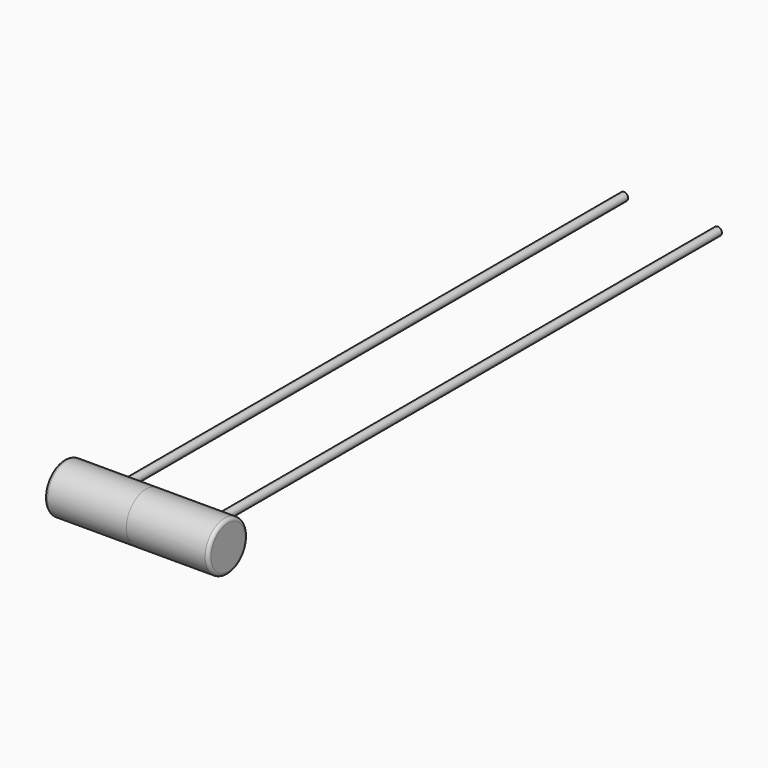
from build123d import *

# Parameters (mm, degrees)
F0_R      = 6.35
F1_DEPTH  = 1016
F2_R      = 38.1
F3_DEPTH  = 127
F3_FACE_R = 38.1
F4_DEPTH  = 127
F5_R      = 5.08
F6_R      = 5.08


with BuildPart() as f1:
    # F0 (on Front) → F1 (new body)
    with BuildSketch(Plane.XZ):
        with Locations((72.469467, 0)):
            Circle(F0_R)
        with Locations((-72.753659, 0)):
            Circle(F0_R)
    extrude(amount=F1_DEPTH)

    # F2 (on Right) → F3 (join)
    with BuildSketch(Plane.YZ):
        with Locations((-1016.373051, 0)):
            Circle(F2_R)
    extrude(amount=F3_DEPTH)

    # F6
    f6_edges = [f1.edges().sort_by_distance(p)[0] for p in [
        (127, -1054.473051, 0),
    ]]
    fillet(f6_edges, radius=F6_R)


with BuildPart() as f4:
    # F3_face (on face) → F4 (new body)
    with BuildSketch(Plane(origin=(0, -1016.373051, 0), x_dir=(0, 1, 0), z_dir=(-1, 0, 0))):
        Circle(F3_FACE_R)
    extrude(amount=F4_DEPTH)

    # F5
    f5_edges = [f4.edges().sort_by_distance(p)[0] for p in [
        (-127, -1054.473051, 0),
    ]]
    fillet(f5_edges, radius=F5_R)


solid = Compound([f1.part, f4.part])
